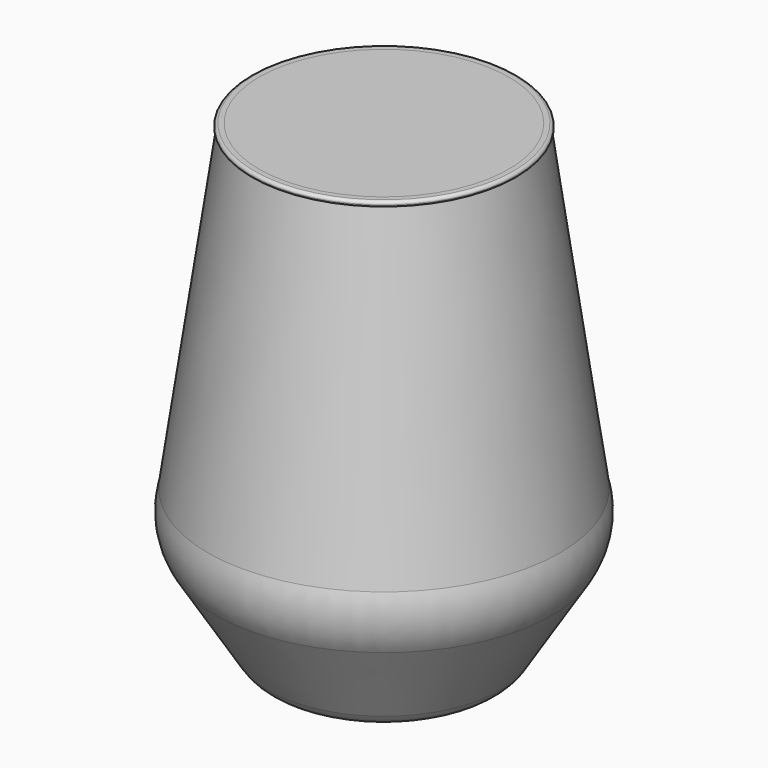
from build123d import *

# Parameters (mm, degrees)
F8_R     = 107.313806
F9_DEPTH = 36


with BuildPart() as f5:
    # F4 (on Front) → F5 (revolve)
    with BuildSketch(Plane.XZ):
        with BuildLine():
            Line((-16.302759, -58.51811), (-16, -58))
            Line((-16, -58), (-6.5, -58))
            ThreePointArc((-6.5, -58), (-3.400368, -59.488695), (0, -60))
            Line((0, -60), (0, -56))
            Line((0, -56), (-16, -56))
            ThreePointArc((-16, -56), (-16.995462, -56.265337), (-17.726791, -56.990945))
            Line((-17.726791, -56.990945), (-18.02955, -57.509055))
            ThreePointArc((-18.02955, -57.509055), (-18.760879, -58.234663), (-19.756342, -58.5))
            Line((-19.756342, -58.5), (-28.105795, -58.5))
            ThreePointArc((-28.105795, -58.5), (-31.196024, -57.643004), (-33.403481, -55.316829))
            Line((-33.403481, -55.316829), (-40.127161, -42.671425))
            ThreePointArc((-40.127161, -42.671425), (-41.748754, -37.984196), (-41.857009, -33.025572))
            Line((-41.857009, -33.025572), (-30.840833, 48.819963))
            ThreePointArc((-30.840833, 48.819963), (-30.983795, 49.294954), (-31.435471, 49.5))
            Line((-31.435471, 49.5), (-32.65, 49.5))
            ThreePointArc((-32.65, 49.5), (-33.18033, 49.28033), (-33.4, 48.75))
            ThreePointArc((-33.4, 48.75), (-33.26239, 48.367644), (-32.91268, 48.160676))
            ThreePointArc((-32.91268, 48.160676), (-32.940977, 48.080345), (-32.969233, 48))
            Line((-32.969233, 48), (-43.839135, -32.758784))
            ThreePointArc((-43.839135, -32.758784), (-43.717348, -38.337236), (-41.893057, -43.610368))
            Line((-41.893057, -43.610368), (-35.169376, -56.255773))
            ThreePointArc((-35.169376, -56.255773), (-32.2261, -59.357338), (-28.105795, -60.5))
            Line((-28.105795, -60.5), (-19.756342, -60.5))
            ThreePointArc((-19.756342, -60.5), (-17.765417, -59.969326), (-16.302759, -58.51811))
        make_face()
    revolve(axis=Axis((0, 0, -58), (0, 0, -1)))


with BuildPart() as f7:
    # F6 (on Front) → F7 (revolve)
    with BuildSketch(Plane.XZ):
        with BuildLine():
            Line((-30.840833, 48.819963), (-41.857009, -33.025572))
            ThreePointArc((-41.857009, -33.025572), (-41.748754, -37.984196), (-40.127161, -42.671425))
            Line((-40.127161, -42.671425), (-33.403481, -55.316829))
            ThreePointArc((-33.403481, -55.316829), (-31.196024, -57.643004), (-28.105795, -58.5))
            Line((-28.105795, -58.5), (-19.756342, -58.5))
            ThreePointArc((-19.756342, -58.5), (-18.760879, -58.234663), (-18.02955, -57.509055))
            Line((-18.02955, -57.509055), (-17.726791, -56.990945))
            ThreePointArc((-17.726791, -56.990945), (-16.995462, -56.265337), (-16, -56))
            Line((-16, -56), (0, -56))
            Line((0, -56), (0, 49.5))
            Line((0, 49.5), (-31.435471, 49.5))
            ThreePointArc((-31.435471, 49.5), (-30.983795, 49.294954), (-30.840833, 48.819963))
        make_face()
    revolve(axis=Axis((0, 0, -3.25), (0, 0, -1)))


with BuildPart() as f9_tool:
    # F8 (on face) → F9 (new body)
    with BuildSketch(Plane.XY.offset(49.5)):
        Circle(F8_R)
    extrude(amount=-F9_DEPTH)


with BuildPart() as f5_1:
    add(f5.part)

    # F9: cut by f9_tool
    add(f9_tool.part, mode=Mode.SUBTRACT)


with BuildPart() as f7_1:
    add(f7.part)

    # F9: cut by f9_tool
    add(f9_tool.part, mode=Mode.SUBTRACT)


with BuildPart() as f12:
    # F11 (on Front) → F12 (revolve)
    with BuildSketch(Plane.XZ):
        with BuildLine():
            ThreePointArc((-32.91268, 48.160676), (-32.940977, 48.080345), (-32.969233, 48))
            Line((-32.969233, 48), (-44.300348, -31.350139))
            ThreePointArc((-44.300348, -31.350139), (-44.826465, -38.813263), (-42.272839, -45.845619))
            Line((-42.272839, -45.845619), (-29.244814, -66.733678))
            ThreePointArc((-29.244814, -66.733678), (-26.338288, -69.495335), (-22.456885, -70.5))
            Line((-22.456885, -70.5), (-19.756886, -70.5))
            ThreePointArc((-19.756886, -70.5), (-17.767316, -69.970103), (-16.30488, -68.520806))
            Line((-16.30488, -68.520806), (-16, -68))
            Line((-16, -68), (-6.5, -68))
            ThreePointArc((-6.5, -68), (-3.400368, -69.488695), (0, -70))
            Line((0, -70), (0, -66))
            Line((0, -66), (-6.5, -66))
            Line((-6.5, -66), (-16, -66))
            ThreePointArc((-16, -66), (-16.994785, -66.264949), (-17.726003, -66.989597))
            Line((-17.726003, -66.989597), (-18.030883, -67.510403))
            ThreePointArc((-18.030883, -67.510403), (-18.762101, -68.235051), (-19.756886, -68.5))
            Line((-19.756886, -68.5), (-22.456885, -68.5))
            ThreePointArc((-22.456885, -68.5), (-25.367937, -67.746501), (-27.547831, -65.675258))
            Line((-27.547831, -65.675258), (-40.575857, -44.787199))
            ThreePointArc((-40.575857, -44.787199), (-42.372244, -40.757648), (-42.999843, -36.390681))
            Line((-42.999843, -36.390681), (-30.832537, 48.815181))
            ThreePointArc((-30.832537, 48.815181), (-30.97325, 49.293134), (-31.426512, 49.5))
            Line((-31.426512, 49.5), (-32.65, 49.5))
            ThreePointArc((-32.65, 49.5), (-33.18033, 49.28033), (-33.4, 48.75))
            ThreePointArc((-33.4, 48.75), (-33.26239, 48.367644), (-32.91268, 48.160676))
        make_face()
    revolve(axis=Axis((0, 0, -68), (0, 0, -1)))


with BuildPart() as f14:
    # F13 (on Front) → F14 (revolve)
    with BuildSketch(Plane.XZ):
        with BuildLine():
            Line((-40.575857, -44.787199), (-27.547831, -65.675258))
            ThreePointArc((-27.547831, -65.675258), (-25.367937, -67.746501), (-22.456885, -68.5))
            Line((-22.456885, -68.5), (-19.756886, -68.5))
            ThreePointArc((-19.756886, -68.5), (-18.762101, -68.235051), (-18.030883, -67.510403))
            Line((-18.030883, -67.510403), (-17.726003, -66.989597))
            ThreePointArc((-17.726003, -66.989597), (-16.994785, -66.264949), (-16, -66))
            Line((-16, -66), (-6.5, -66))
            Line((-6.5, -66), (0, -66))
            Line((0, -66), (0, 49.5))
            Line((0, 49.5), (-31.426512, 49.5))
            ThreePointArc((-31.426512, 49.5), (-30.97325, 49.293134), (-30.832537, 48.815181))
            Line((-30.832537, 48.815181), (-42.999843, -36.390681))
            ThreePointArc((-42.999843, -36.390681), (-42.372244, -40.757648), (-40.575857, -44.787199))
        make_face()
    revolve(axis=Axis((0, 0, -8.25), (0, 0, -1)))


solid = Compound([f12.part, f14.part])
